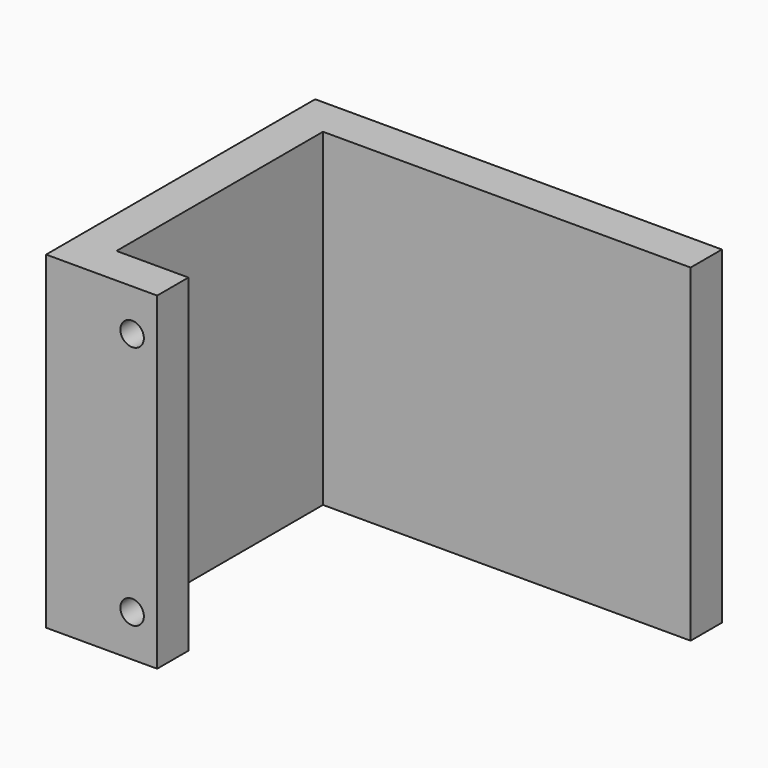
from build123d import *

# Parameters (mm, degrees)
F0_W     = 9.2
F0_H     = 5
F1_DEPTH = 42
F3_D     = 3
F3_DEPTH = 12
F4_D     = 3
F4_DEPTH = 12


with BuildPart() as f1:
    # F0 (on Top) → F1 (new body)
    with BuildSketch(Plane.XY):
        Polygon((0, 14.349465), (0, 9.349465), (5, 9.349465), (52, 9.349465), (52, 14.349465), align=None)
        Polygon((5, 9.349465), (0, 9.349465), (0, -28.650535), (5, -28.650535), (5, -23.650535), align=None)
        with Locations((9.6, -26.150535)):
            Rectangle(F0_W, F0_H)
    extrude(amount=F1_DEPTH)

    # F3
    with Locations(Plane.XZ.offset(28.650535)):
        with Locations((11, 36.65)):
            Hole(F3_D / 2, depth=F3_DEPTH)

    # F4
    with Locations(Plane.XZ.offset(28.650535)):
        with Locations((11, 5.35)):
            Hole(F4_D / 2, depth=F4_DEPTH)


solid = f1.part
